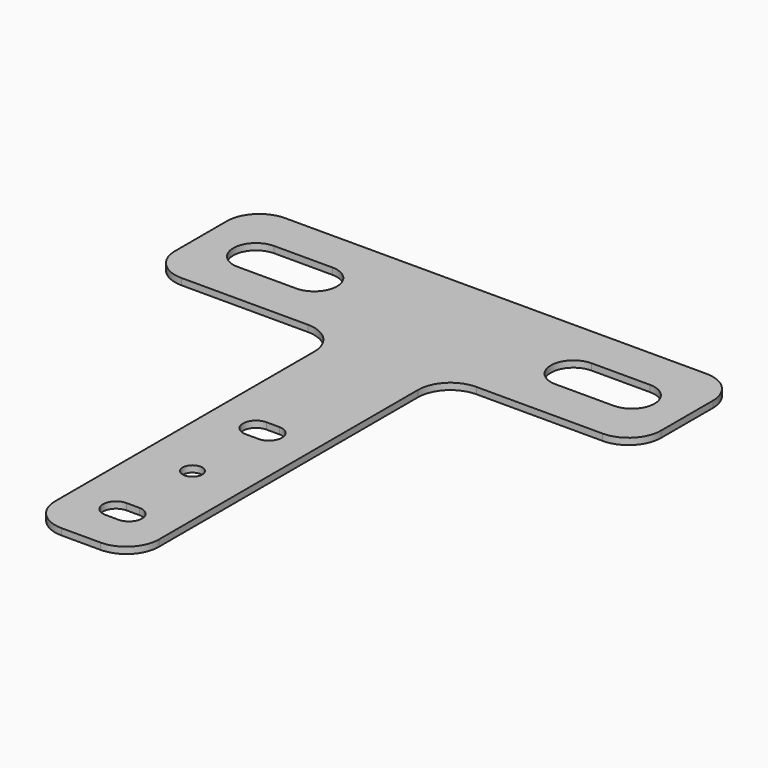
from build123d import *

# Parameters (mm, degrees)
F1_DEPTH = 1
F2_R     = 1.5
F3_DEPTH = 1.001


with BuildPart() as f1:
    # F0 (on Top) → F1 (new body)
    with BuildSketch(Plane.XY):
        with BuildLine():
            Line((32.5, 20), (-32.5, 20))
            ThreePointArc((-32.5, 20), (-36.035534, 18.535534), (-37.5, 15))
            Line((-37.5, 15), (-37.5, 5))
            ThreePointArc((-37.5, 5), (-36.035534, 1.464466), (-32.5, 0))
            Line((-32.5, 0), (-13, 0))
            ThreePointArc((-13, 0), (-9.464466, -1.464466), (-8, -5))
            Line((-8, -5), (-8, -55))
            ThreePointArc((-8, -55), (-6.535534, -58.535534), (-3, -60))
            Line((-3, -60), (3, -60))
            ThreePointArc((3, -60), (6.535534, -58.535534), (8, -55))
            Line((8, -55), (8, -5))
            ThreePointArc((8, -5), (9.464466, -1.464466), (13, 0))
            Line((13, 0), (32.5, 0))
            ThreePointArc((32.5, 0), (36.035534, 1.464466), (37.5, 5))
            Line((37.5, 5), (37.5, 15))
            ThreePointArc((37.5, 15), (36.035534, 18.535534), (32.5, 20))
        make_face()
    extrude(amount=F1_DEPTH)

    # F2 (on face) → F3 (cut, through all)
    with BuildSketch(Plane.XY.offset(1)):
        with BuildLine():
            Line((1, -50), (-1, -50))
            ThreePointArc((-1, -50), (-3, -52), (-1, -54))
            Line((-1, -54), (1, -54))
            ThreePointArc((1, -54), (3, -52), (1, -50))
        make_face()
        with BuildLine():
            Line((1, -23), (-1, -23))
            ThreePointArc((-1, -23), (-3, -25), (-1, -27))
            Line((-1, -27), (1, -27))
            ThreePointArc((1, -27), (3, -25), (1, -23))
        make_face()
        with BuildLine():
            Line((29, 13.5), (20, 13.5))
            ThreePointArc((20, 13.5), (16.5, 10), (20, 6.5))
            Line((20, 6.5), (29, 6.5))
            ThreePointArc((29, 6.5), (32.5, 10), (29, 13.5))
        make_face()
        with BuildLine():
            Line((-20, 13.5), (-29, 13.5))
            ThreePointArc((-29, 13.5), (-32.5, 10), (-29, 6.5))
            Line((-29, 6.5), (-20, 6.5))
            ThreePointArc((-20, 6.5), (-16.5, 10), (-20, 13.5))
        make_face()
        with Locations((0, -38.5)):
            Circle(F2_R)
    extrude(amount=-F3_DEPTH, mode=Mode.SUBTRACT)


solid = f1.part
